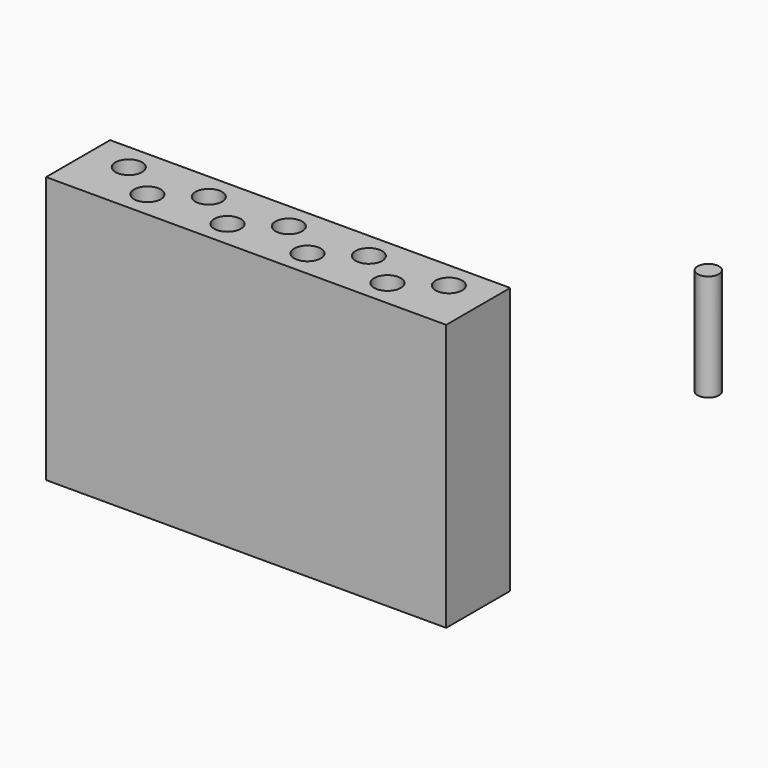
from build123d import *

# Parameters (mm, degrees)
F0_W     = 95.25
F0_H     = 19.05
F1_DEPTH = 63.5
F2_R     = 3.175
F3_DEPTH = 38.1
F4_DEPTH = 38.1
F5_R     = 2.54
F6_DEPTH = 25.4


with BuildPart() as f1:
    # F0 (on Top) → F1 (new body)
    with BuildSketch(Plane.XY):
        with Locations((47.625, 9.525)):
            Rectangle(F0_W, F0_H)
    extrude(amount=-F1_DEPTH)

    # F2 (on Top) → F3 (cut)
    with BuildSketch(Plane.XY):
        with Locations((9.525, 12.7)):
            Circle(F2_R)
        with Locations((28.575, 12.7)):
            Circle(F2_R)
        with Locations((47.625, 12.7)):
            Circle(F2_R)
        with Locations((66.675, 12.7)):
            Circle(F2_R)
        with Locations((85.725, 12.7)):
            Circle(F2_R)
        with Locations((19.05, 6.35)):
            Circle(F2_R)
        with Locations((38.1, 6.35)):
            Circle(F2_R)
        with Locations((57.15, 6.35)):
            Circle(F2_R)
        with Locations((76.2, 6.35)):
            Circle(F2_R)
    extrude(amount=F3_DEPTH, mode=Mode.SUBTRACT)

    # F2 (on Top) → F4 (cut)
    with BuildSketch(Plane.XY):
        with Locations((9.525, 12.7)):
            Circle(F2_R)
        with Locations((28.575, 12.7)):
            Circle(F2_R)
        with Locations((47.625, 12.7)):
            Circle(F2_R)
        with Locations((66.675, 12.7)):
            Circle(F2_R)
        with Locations((85.725, 12.7)):
            Circle(F2_R)
        with Locations((19.05, 6.35)):
            Circle(F2_R)
        with Locations((38.1, 6.35)):
            Circle(F2_R)
        with Locations((57.15, 6.35)):
            Circle(F2_R)
        with Locations((76.2, 6.35)):
            Circle(F2_R)
    extrude(amount=-F4_DEPTH, mode=Mode.SUBTRACT)


with BuildPart() as f6:
    # F5 (on Top) → F6 (new body)
    with BuildSketch(Plane.XY):
        with Locations((150.01875, 9.525)):
            Circle(F5_R)
    extrude(amount=F6_DEPTH)


solid = Compound([f1.part, f6.part])
